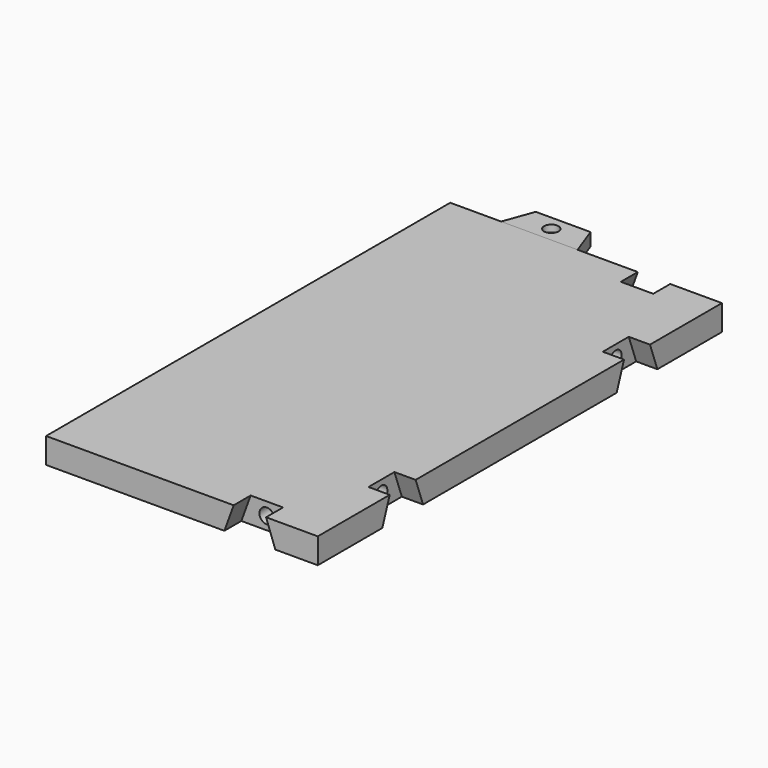
from build123d import *

# Parameters (mm, degrees)
BINDER020_W         = 119
BINDER020_H         = 64
PAD012_DEPTH        = 6
SKETCH_R            = 1.75
POCKET_DEPTH        = 9
POCKET001_DEPTH     = 5
POCKET002_DEPTH     = 5
SKETCH046_R         = 1.75
POCKET003_DEPTH     = 4
POCKET004_DEPTH     = 5
SKETCH048_R         = 1.75
POCKET005_DEPTH     = 4
PAD013_DEPTH        = 3
HOLE012_D           = 3.4
HOLE012_DEPTH       = 25
HOLE012_CSINK_D     = 6.1
HOLE012_CSINK_ANGLE = 90


with BuildPart() as obj1:
    # Binder020 → Pad012 (new body)
    with BuildSketch(Plane(origin=(0, 0, 0), x_dir=(0, 1, 0), z_dir=(0, 0, 1))):
        Rectangle(BINDER020_W, BINDER020_H)
    extrude(amount=PAD012_DEPTH)

    # Sketch (on Face2 of Pad012) → Pocket (cut)
    with BuildSketch(Plane.YZ.offset(32)):
        with Locations((-34.5, 3)):
            Circle(SKETCH_R)
        with Locations((34.5, 3)):
            Circle(SKETCH_R)
    extrude(amount=-POCKET_DEPTH, mode=Mode.SUBTRACT)

    # Sketch044 (on Face3 of Pocket) → Pocket001 (cut)
    with BuildSketch(Plane.YZ.offset(32)):
        Polygon((-40.5, 0), (-38.316179, 6), (-30.683821, 6), (-28.5, 0), align=None)
        Polygon((30.683821, 6), (38.316179, 6), (40.5, 0), (28.5, 0), align=None)
    extrude(amount=-POCKET001_DEPTH, mode=Mode.SUBTRACT)

    # Sketch045 (on Face1 of Pocket001) → Pocket002 (cut)
    with BuildSketch(Plane.XZ.offset(59.5)):
        Polygon((10, 0), (12.183821, 6), (19.816179, 6), (22, 0), align=None)
    extrude(amount=-POCKET002_DEPTH, mode=Mode.SUBTRACT)

    # Sketch046 (on Face18 of Pocket002) → Pocket003 (cut)
    with BuildSketch(Plane.XZ.offset(54.5)):
        with Locations((16, 3)):
            Circle(SKETCH046_R)
    extrude(amount=-POCKET003_DEPTH, mode=Mode.SUBTRACT)

    # Sketch047 (on Face6 of Pocket003) → Pocket004 (cut)
    with BuildSketch(Plane(origin=(0, 59.5, 0), x_dir=(-1, 0, 0), z_dir=(0, 1, 0))):
        Polygon((-22, 0), (-19.816179, 6), (-12.183821, 6), (-10, 0), align=None)
    extrude(amount=-POCKET004_DEPTH, mode=Mode.SUBTRACT)

    # Sketch048 (on Face20 of Pocket004) → Pocket005 (cut)
    with BuildSketch(Plane(origin=(0, 54.5, 0), x_dir=(-1, 0, 0), z_dir=(0, 1, 0))):
        with Locations((-16, 3)):
            Circle(SKETCH048_R)
    extrude(amount=-POCKET005_DEPTH, mode=Mode.SUBTRACT)


with BuildPart() as body020:
    # Sketch042 (on Face1 of Binder029) → Pad013 (new body)
    with BuildSketch(Plane.XY.offset(3)):
        Polygon((-20, -59.5), (-17.452208, -66.5), (-4.547792, -66.5), (-2, -59.5), align=None)
    extrude(amount=PAD013_DEPTH)

    # Hole012
    with Locations(Plane(origin=(0, 0, 3), x_dir=(1, 0, 0), z_dir=(0, 0, -1))):
        with Locations((-11, 63)):
            CounterSinkHole(HOLE012_D / 2, HOLE012_CSINK_D / 2, depth=HOLE012_DEPTH, counter_sink_angle=HOLE012_CSINK_ANGLE)


with BuildPart() as part_mirroring:
    # Part__Mirroring: instance of Body020
    add(body020.part.mirror(Plane(origin=(0, 0, 0), x_dir=(1, 0, 0), z_dir=(0, 1, 0))))


solid = Compound([obj1.part, part_mirroring.part])
